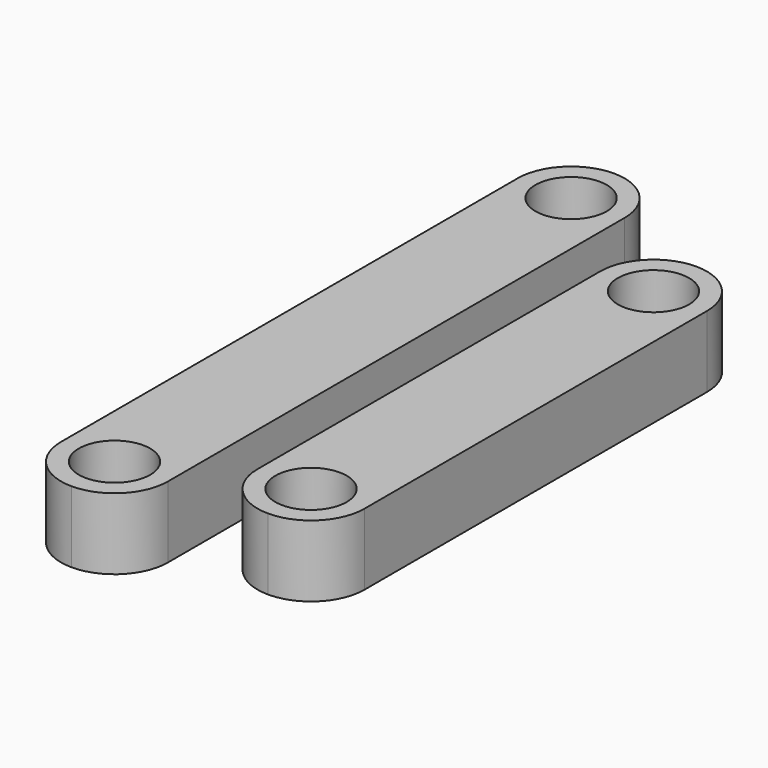
from build123d import *

# Parameters (mm, degrees)
F0_R     = 12.7
F1_DEPTH = 25.4
F2_DEPTH = 25.4


with BuildPart() as f1:
    # F0 (on Top) → F1 (new body)
    with BuildSketch(Plane.XY):
        with BuildLine():
            ThreePointArc((-27.081409, 51.122649), (-40.551793, 45.543033), (-46.131409, 32.072649))
            Line((-46.131409, 32.072649), (-46.131409, -171.127351))
            ThreePointArc((-46.131409, -171.127351), (-40.551793, -184.597735), (-27.081409, -190.177351))
            ThreePointArc((-27.081409, -190.177351), (-13.611025, -184.597735), (-8.031409, -171.127351))
            Line((-8.031409, -171.127351), (-8.031409, 32.072649))
            ThreePointArc((-8.031409, 32.072649), (-13.611025, 45.543033), (-27.081409, 51.122649))
        make_face()
        with Locations((-27.081409, -171.127351)):
            Circle(F0_R, mode=Mode.SUBTRACT)
        with Locations((-27.081409, 32.072649)):
            Circle(F0_R, mode=Mode.SUBTRACT)
    extrude(amount=F1_DEPTH)


with BuildPart() as f2:
    # F0 (on Top) → F2 (new body)
    with BuildSketch(Plane.XY):
        with BuildLine():
            ThreePointArc((25.829059, 21.648322), (12.358675, 16.068706), (6.779059, 2.598322))
            Line((6.779059, 2.598322), (6.779059, -149.801678))
            ThreePointArc((6.779059, -149.801678), (12.358675, -163.272062), (25.829059, -168.851678))
            ThreePointArc((25.829059, -168.851678), (39.299443, -163.272062), (44.879059, -149.801678))
            Line((44.879059, -149.801678), (44.879059, 2.598322))
            ThreePointArc((44.879059, 2.598322), (39.299443, 16.068706), (25.829059, 21.648322))
        make_face()
        with Locations((25.829059, -149.801678)):
            Circle(F0_R, mode=Mode.SUBTRACT)
        with Locations((25.829059, 2.598322)):
            Circle(F0_R, mode=Mode.SUBTRACT)
    extrude(amount=F2_DEPTH)


solid = Compound([f1.part, f2.part])
